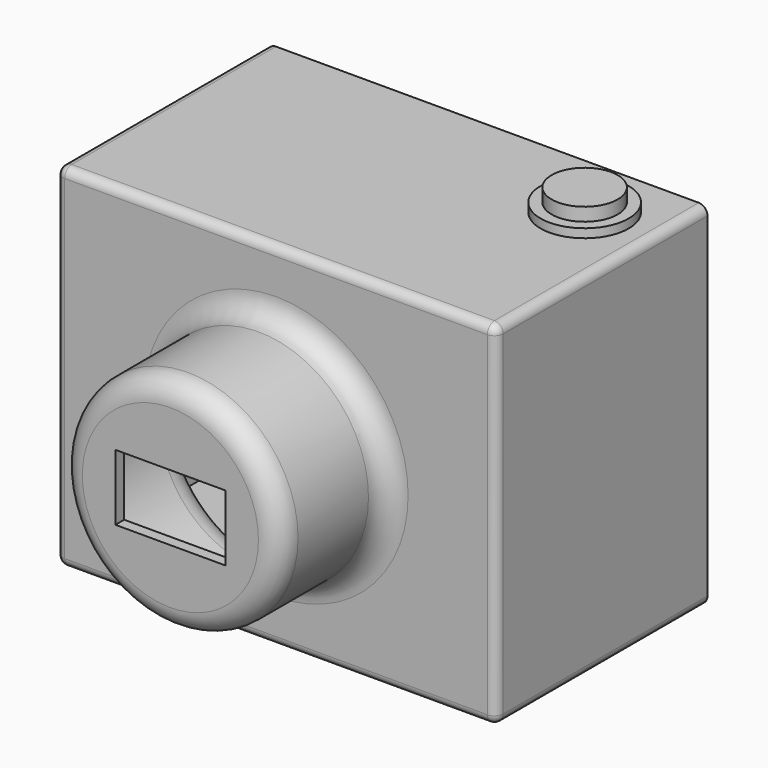
from build123d import *

# Parameters (mm, degrees)
F0_W      = 100
F0_H      = 60
F1_DEPTH  = 40
F2_R      = 25
F3_DEPTH  = 30
F5_R      = 5
F6_T      = -2.5
F4_W      = 25
F4_H      = 15
F7_DEPTH  = 90.001
F8_R      = 2
F9_R      = 7.5
F10_DEPTH = 5
F11_R     = 10
F12_DEPTH = 2


with BuildPart() as f1:
    # F0 (on Top) → F1 (new body, symmetric)
    with BuildSketch(Plane.XY):
        Rectangle(F0_W, F0_H)
    extrude(amount=F1_DEPTH, both=True)

    # F2 (on face) → F3 (join)
    with BuildSketch(Plane.XZ.offset(30)):
        Circle(F2_R)
    extrude(amount=F3_DEPTH)

    # F5
    f5_edges = [f1.edges().sort_by_distance(p)[0] for p in [
        (-25, -60, 0),
        (-25, -30, 0),
    ]]
    fillet(f5_edges, radius=F5_R)

    # F6
    f6_openings = [f1.faces().sort_by_distance(p)[0] for p in [
        (0, 30, 0),
    ]]
    offset(amount=F6_T, openings=f6_openings)

    # F4 (on face) → F7 (cut, through all)
    with BuildSketch(Plane.XZ.offset(60)):
        Rectangle(F4_W, F4_H)
    extrude(amount=-F7_DEPTH, mode=Mode.SUBTRACT)

    # F8
    f8_edges = [f1.edges().sort_by_distance(p)[0] for p in [
        (0, -30, 40),
        (50, 0, 40),
        (50, -30, 0),
        (-50, -30, 0),
        (0, -30, -40),
        (-50, 0, -40),
        (50, 0, -40),
        (-50, 0, 40),
    ]]
    fillet(f8_edges, radius=F8_R)

    # F11 (on face) → F12 (join)
    with BuildSketch(Plane.XY.offset(40)):
        with Locations((34.5, 14.5)):
            Circle(F11_R)
    extrude(amount=F12_DEPTH)


with BuildPart() as f10:
    # F9 (on face) → F10 (new body)
    with BuildSketch(Plane.XY.offset(40)):
        with Locations((34.5, 14.5)):
            Circle(F9_R)
    extrude(amount=F10_DEPTH)


solid = Compound([f1.part, f10.part])
